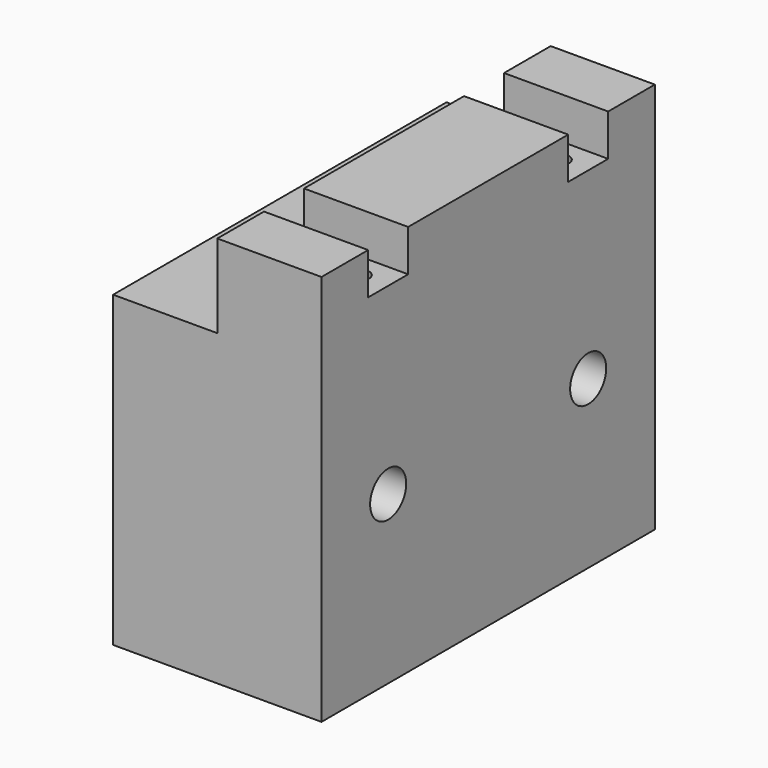
from build123d import *

# Parameters (mm, degrees)
F0_W             = 25
F0_H             = 47
F1_DEPTH         = 25
F4_D             = 5.4102
F4_DEPTH         = 10
F4_TIP           = 1.6253880605
F4_ON_F3_D       = 5.4102
F4_ON_F3_DEPTH   = 10
F4_ON_F3_TIP     = 1.6253880605
F5_W             = 12.5
F5_H             = 10
F6_DEPTH         = 50.001
F7_W             = 12.5
F7_H             = 6
F8_DEPTH         = 5
F11_D            = 2.4
F11_DEPTH        = 10
F11_TIP          = 0.7210327428
F11_ON_F10_D     = 2.4
F11_ON_F10_DEPTH = 10
F11_ON_F10_TIP   = 0.7210327428
F9_W             = 7
F9_H             = 2
F10_W            = 7
F10_H            = 2


with BuildPart() as f1:
    # F0 (on Front) → F1 (new body, symmetric)
    with BuildSketch(Plane.XZ):
        with Locations((0, 3.5)):
            Rectangle(F0_W, F0_H)
    extrude(amount=F1_DEPTH, both=True)

    # F4
    with Locations(Plane(origin=(-12.5, 0, 0), x_dir=(0, -1, 0), z_dir=(-1, 0, 0))):
        with Locations((-15, 0), (15, 0)):
            Hole(F4_D / 2, depth=F4_DEPTH)
            with Locations((0, 0, -(F4_DEPTH + F4_TIP / 2))):  # 118° drill point
                Cone(0, F4_D / 2, F4_TIP, mode=Mode.SUBTRACT)

    # F4 on F3
    with Locations(Plane.YZ.offset(12.5)):
        with Locations((-15, 0), (15, 0)):
            Hole(F4_ON_F3_D / 2, depth=F4_ON_F3_DEPTH)
            with Locations((0, 0, -(F4_ON_F3_DEPTH + F4_ON_F3_TIP / 2))):  # 118° drill point
                Cone(0, F4_ON_F3_D / 2, F4_ON_F3_TIP, mode=Mode.SUBTRACT)

    # F5 (on face) → F6 (cut, through all)
    with BuildSketch(Plane.XZ.offset(25)):
        with Locations((-6.25, 22)):
            Rectangle(F5_W, F5_H)
    extrude(amount=-F6_DEPTH, mode=Mode.SUBTRACT)

    # F7 (on face) → F8 (cut)
    with BuildSketch(Plane.XY.offset(27)):
        with Locations((6.25, 15)):
            Rectangle(F7_W, F7_H)
        with Locations((6.25, -15)):
            Rectangle(F7_W, F7_H)
    extrude(amount=-F8_DEPTH, mode=Mode.SUBTRACT)

    # F11
    with Locations(Plane.XY.offset(22)):
        with Locations((9, 15)):
            Hole(F11_D / 2, depth=F11_DEPTH)
            with Locations((0, 0, -(F11_DEPTH + F11_TIP / 2))):  # 118° drill point
                Cone(0, F11_D / 2, F11_TIP, mode=Mode.SUBTRACT)

    # F11 on F10
    with Locations(Plane.XY.offset(22)):
        with Locations((9, -15)):
            Hole(F11_ON_F10_D / 2, depth=F11_ON_F10_DEPTH)
            with Locations((0, 0, -(F11_ON_F10_DEPTH + F11_ON_F10_TIP / 2))):  # 118° drill point
                Cone(0, F11_ON_F10_D / 2, F11_ON_F10_TIP, mode=Mode.SUBTRACT)

    # F9 (on face) → F12 (revolve, cut)
    with BuildSketch(Plane.XY.offset(22)):
        with Locations((3.5, 16)):
            Rectangle(F9_W, F9_H)
    revolve(axis=Axis((7.6713971794, 15, 22), (1, 0, 0)), mode=Mode.SUBTRACT)

    # F10 (on face) → F13 (revolve, cut)
    with BuildSketch(Plane.XY.offset(22)):
        with Locations((3.5, -14)):
            Rectangle(F10_W, F10_H)
    revolve(axis=Axis((7.2402027436, -15, 22), (1, 0, 0)), mode=Mode.SUBTRACT)


solid = f1.part
